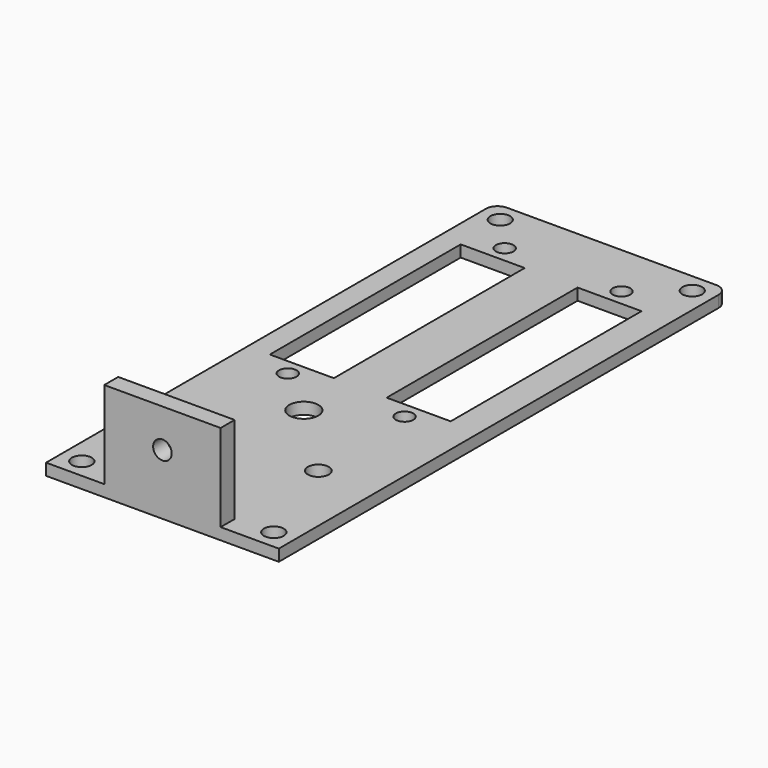
from build123d import *

# Parameters (mm, degrees)
SKETCH_W        = 40
SKETCH_H        = 96.5
PAD_DEPTH       = 2
SKETCH001_R     = 1.7
SKETCH001_R_2   = 1.5
SKETCH001_R_3   = 2.5
SKETCH001_R_4   = 1.8
SKETCH001_W     = 11
SKETCH001_H     = 41
POCKET_DEPTH    = 5
FILLET_R        = 2
FILLET001_R     = 2
SKETCH004_W     = 20
SKETCH004_H     = 3
PAD002_DEPTH    = 15
SKETCH005_R     = 1.6
POCKET002_DEPTH = 5


with BuildPart() as part:
    # Sketch → Pad (new body)
    with BuildSketch(Plane.XY):
        Rectangle(SKETCH_W, SKETCH_H)
    extrude(amount=PAD_DEPTH)

    # Sketch001 (on Face6 of Pad) → Pocket (cut)
    with BuildSketch(Plane.XY.offset(2)):
        with Locations((-16.5, 44.95)):
            Circle(SKETCH001_R)
        with Locations((16.5, 44.95)):
            Circle(SKETCH001_R)
        with Locations((-16.5, -44.95)):
            Circle(SKETCH001_R)
        with Locations((16.5, -44.95)):
            Circle(SKETCH001_R)
        with Locations((-10.86, 38.85)):
            Circle(SKETCH001_R_2)
        with Locations((-10.86, -7.75)):
            Circle(SKETCH001_R_2)
        with Locations((-2.5, -14.75)):
            Circle(SKETCH001_R_3)
        with Locations((-15, -27.25)):
            Circle(SKETCH001_R_4)
        with Locations((10, -27.25)):
            Circle(SKETCH001_R_4)
        with Locations((9.220326, 38.85)):
            Circle(SKETCH001_R_2)
        with Locations((9.220326, -7.75)):
            Circle(SKETCH001_R_2)
        with Locations((-10.68, 15.55)):
            Rectangle(SKETCH001_W, SKETCH001_H)
        with Locations((9.400326, 15.55)):
            Rectangle(SKETCH001_W, SKETCH001_H)
    extrude(amount=-POCKET_DEPTH, mode=Mode.SUBTRACT)

    # Fillet
    fillet_edges = [part.edges().sort_by_distance(p)[0] for p in [
        (-20, 48.25, 1),
    ]]
    fillet(fillet_edges, radius=FILLET_R)

    # Fillet001
    fillet001_edges = [part.edges().sort_by_distance(p)[0] for p in [
        (20, 48.25, 1),
    ]]
    fillet(fillet001_edges, radius=FILLET001_R)

    # Sketch004 → Pad002 (join)
    with BuildSketch(Plane.XY.offset(2)):
        with Locations((0, -46.75)):
            Rectangle(SKETCH004_W, SKETCH004_H)
    extrude(amount=PAD002_DEPTH)

    # Sketch005 (on Face40 of Pad002) → Pocket002 (cut)
    with BuildSketch(Plane.XZ.offset(48.25)):
        with Locations((0, 10.420713)):
            Circle(SKETCH005_R)
    extrude(amount=-POCKET002_DEPTH, mode=Mode.SUBTRACT)


solid = part.part
